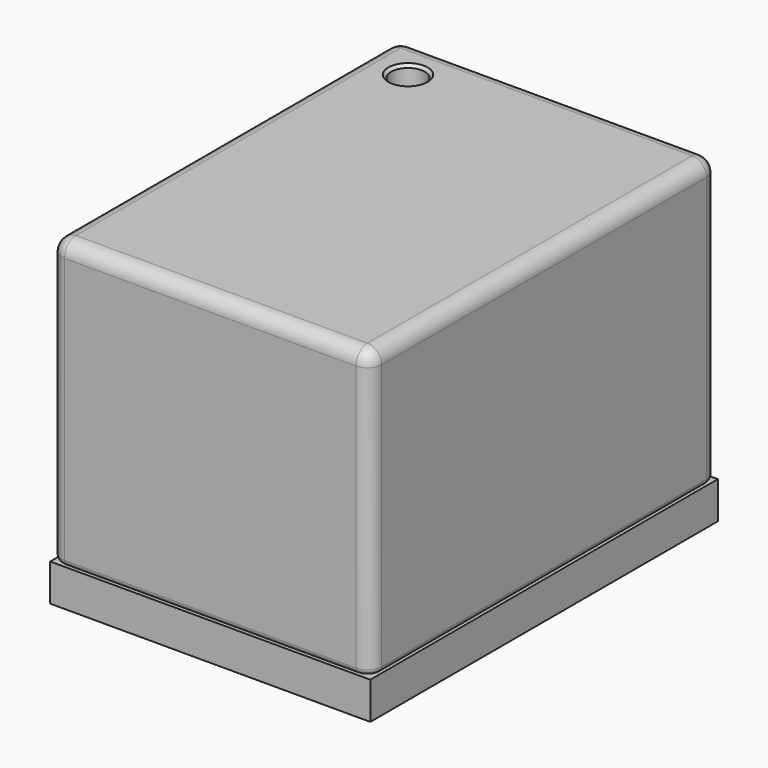
from build123d import *

# Parameters (mm, degrees)
SKETCH_W     = 11.2
SKETCH_H     = 15.2
PAD_DEPTH    = 10
FILLET_R     = 0.5
FILLET001_R  = 0.2
SKETCH002_R  = 0.590091
POCKET_DEPTH = 1
SKETCH001_W  = 11.2
SKETCH001_H  = 15.2
PAD001_DEPTH = 1.3
CHAMFER_SIZE = 0.1


with BuildPart() as part:
    # Sketch → Pad (new body)
    with BuildSketch(Plane.XY):
        Rectangle(SKETCH_W, SKETCH_H)
    extrude(amount=PAD_DEPTH)

    # Fillet
    fillet_edges = [part.edges().sort_by_distance(p)[0] for p in [
        (-5.6, 0, 10),
        (0, 7.6, 10),
        (5.6, 0, 10),
        (0, -7.6, 10),
        (5.6, -7.6, 5),
        (5.6, 7.6, 5),
        (-5.6, 7.6, 5),
        (-5.6, -7.6, 5),
    ]]
    fillet(fillet_edges, radius=FILLET_R)

    # Fillet001
    fillet001_edges = [part.edges().sort_by_distance(p)[0] for p in [
        (-5.6, 0, 0),
        (-5.453553, -7.453553, 0),
        (-5.453553, 7.453553, 0),
        (0, -7.6, 0),
        (0, 7.6, 0),
        (5.453553, -7.453553, 0),
        (5.453553, 7.453553, 0),
        (5.6, 0, 0),
    ]]
    fillet(fillet001_edges, radius=FILLET001_R)

    # Sketch002 (on Face12 of Fillet001) → Pocket (cut)
    with BuildSketch(Plane.XY.offset(10)):
        with Locations((-3.95892, 5.998271)):
            Circle(SKETCH002_R)
    extrude(amount=-POCKET_DEPTH, mode=Mode.SUBTRACT)

    # Sketch001 (on Face9 of Fillet001) → Pad001 (join)
    with BuildSketch(Plane(origin=(0, 0, 0), x_dir=(1, 0, 0), z_dir=(0, 0, -1))):
        Rectangle(SKETCH001_W, SKETCH001_H)
    extrude(amount=PAD001_DEPTH)

    # Chamfer
    chamfer_edges = [part.edges().sort_by_distance(p)[0] for p in [
        (-4.549011, 5.998271, 10),
    ]]
    chamfer(chamfer_edges, length=CHAMFER_SIZE)


solid = part.part
